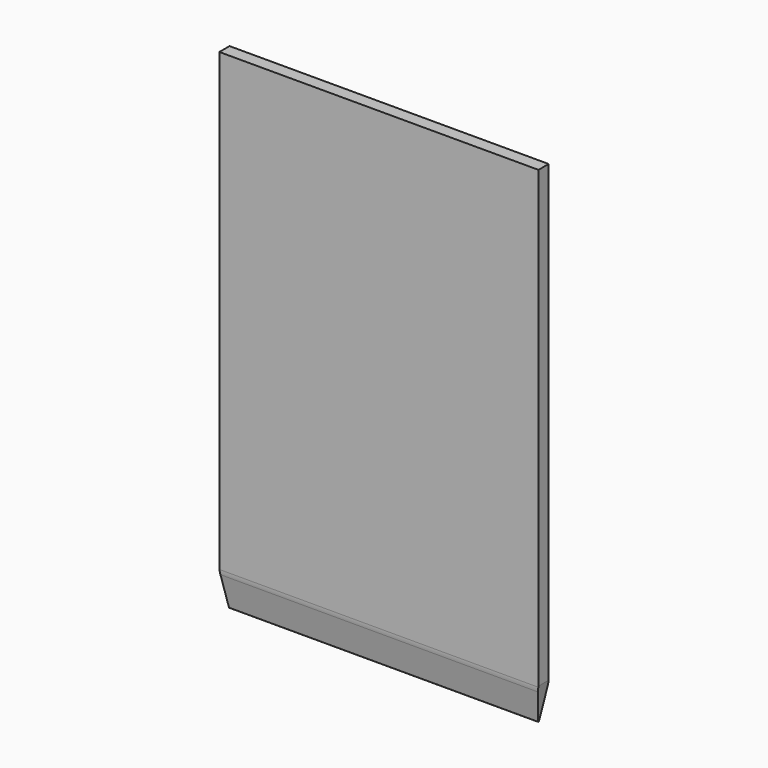
from build123d import *

# Parameters (mm, degrees)
F1_DEPTH = 125
F2_R     = 4
F3_DEPTH = 25
F4_DEPTH = 36


with BuildPart() as f1:
    # F0 (on Right) → F1 (new body, symmetric)
    with BuildSketch(Plane.YZ):
        with BuildLine():
            Line((5.0090884984, -182.833), (5.0090884984, 210))
            Line((5.0090884984, 210), (-4.9909115016, 210))
            Line((-4.9909115016, 210), (-4.9909115016, -182.833))
            ThreePointArc((-4.9909115016, -182.833), (-4.9115139688, -184.613336301), (-4.6739517672, -186.3795371709))
            Line((-4.6739517672, -186.3795371709), (-0.4920760066, -209.5886634293))
            ThreePointArc((-0.4920760066, -209.5886634293), (-0.0445084075, -209.0019849383), (0.5, -209.5))
            ThreePointArc((0.5, -209.5), (0.4979981418, -209.5446973239), (0.4920085969, -209.589036737))
            Line((0.4920085969, -209.589036737), (4.6894323761, -186.3944694794))
            ThreePointArc((4.6894323761, -186.3944694794), (4.9290141704, -184.620892956), (5.0090884984, -182.833))
        make_face()
        with BuildLine():
            ThreePointArc((0, -210), (0.3205320823, -209.8837436439), (0.4920085969, -209.589036737))
            ThreePointArc((0.4920085969, -209.589036737), (0.4979981418, -209.5446973239), (0.5, -209.5))
            ThreePointArc((0.5, -209.5), (-0.0445084075, -209.0019849383), (-0.4920760066, -209.5886634293))
            ThreePointArc((-0.4920760066, -209.5886634293), (-0.3206776305, -209.883622024), (0, -210))
        make_face()
    extrude(amount=F1_DEPTH, both=True)

    # F2 (on face) → F3 (cut)
    with BuildSketch(Plane(origin=(0, 5.0090884984, 0), x_dir=(-1, 0, 0), z_dir=(0, 1, 0))):
        Polygon((-121, -209.999999964), (-125, -182.0001907149), (-125.1033538297, -209.999999964), align=None)
        Polygon((125.1033538297, -209.999999964), (125, -182.0001907149), (121, -209.999999964), align=None)
        with Locations((0, 198)):
            Circle(F2_R)
        with Locations((0, 180)):
            Circle(F2_R)
    extrude(amount=-F3_DEPTH, mode=Mode.SUBTRACT)

    # F4 (cut): a face of the model
    f4_faces = [f1.faces().sort_by_distance(p)[0] for p in [
        (0, 0.0090884984, 210),
    ]]
    extrude(f4_faces, amount=-F4_DEPTH, mode=Mode.SUBTRACT)


solid = f1.part
